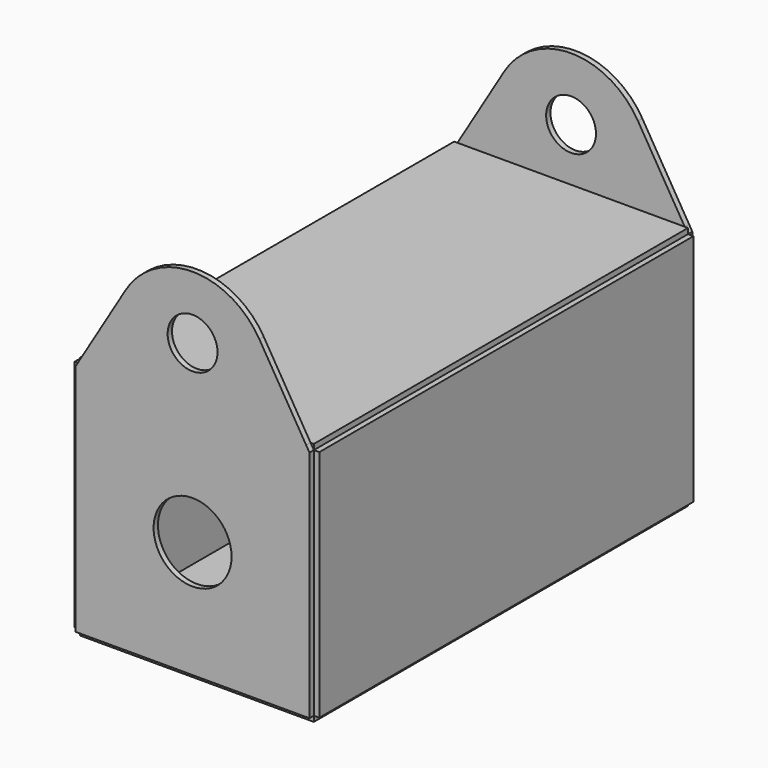
from build123d import *

# Parameters (mm, degrees)
F0_W     = 38.1
F0_H     = 0.889
F0_W_2   = 0.889
F0_H_2   = 38.1
F1_DEPTH = 76.2
F2_R     = 4.064
F2_W     = 38.1
F2_H     = 38.1
F2_R_2   = 6.35
F3_DEPTH = 0.889
F4_R     = 4.064
F4_W     = 38.1
F4_H     = 38.1
F4_R_2   = 6.35
F5_DEPTH = 0.889


with BuildPart() as f1:
    # F0 (on Front) → F1 (new body)
    with BuildSketch(Plane.XZ):
        with Locations((19.05, -0.4445)):
            Rectangle(F0_W, F0_H)
        with Locations((-0.4445, 19.05)):
            Rectangle(F0_W_2, F0_H_2)
        with Locations((19.05, 38.5445)):
            Rectangle(F0_W, F0_H)
        with Locations((38.5445, 19.05)):
            Rectangle(F0_W_2, F0_H_2)
    extrude(amount=F1_DEPTH)

    # F2 (on face) → F3 (join)
    with BuildSketch(Plane.XZ.offset(76.2)):
        with BuildLine():
            Line((8.15984, 51.699733), (0.5334, 38.989))
            Line((0.5334, 38.989), (37.5666, 38.989))
            Line((37.5666, 38.989), (29.94016, 51.699733))
            ThreePointArc((29.94016, 51.699733), (19.05, 57.865637), (8.15984, 51.699733))
        make_face()
        with Locations((19.05, 47.625)):
            Circle(F2_R, mode=Mode.SUBTRACT)
        with Locations((19.05, 19.05)):
            Rectangle(F2_W, F2_H)
        with Locations((19.05, 19.05)):
            Circle(F2_R_2, mode=Mode.SUBTRACT)
        Polygon((0.5334, 38.989), (0, 38.1), (38.1, 38.1), (37.5666, 38.989), align=None)
    extrude(amount=F3_DEPTH)

    # F4 (on face) → F5 (join)
    with BuildSketch(Plane(origin=(0, 0, 0), x_dir=(-1, 0, 0), z_dir=(0, 1, 0))):
        with BuildLine():
            Line((-0.5334, 38.989), (-8.15984, 51.699733))
            ThreePointArc((-8.15984, 51.699733), (-19.05, 57.865637), (-29.94016, 51.699733))
            Line((-29.94016, 51.699733), (-37.5666, 38.989))
            Line((-37.5666, 38.989), (-0.5334, 38.989))
        make_face()
        with Locations((-19.05, 47.625)):
            Circle(F4_R, mode=Mode.SUBTRACT)
        Polygon((0, 38.1), (-0.5334, 38.989), (-37.5666, 38.989), (-38.1, 38.1), align=None)
        with Locations((-19.05, 19.05)):
            Rectangle(F4_W, F4_H)
        with Locations((-19.05, 19.05)):
            Circle(F4_R_2, mode=Mode.SUBTRACT)
    extrude(amount=F5_DEPTH)


solid = f1.part
